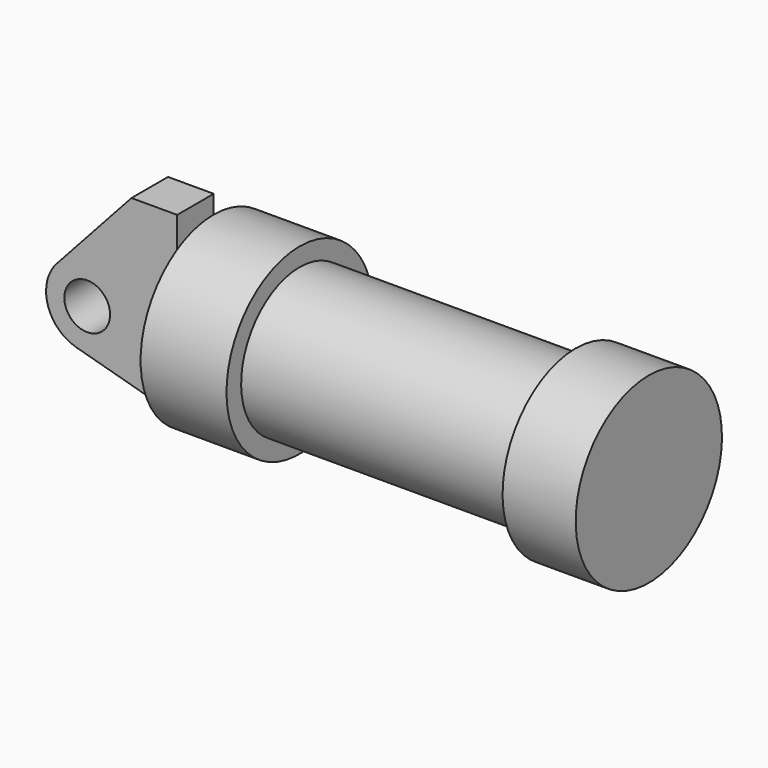
from build123d import *

# Parameters (mm, degrees)
F0_R     = 3.175
F0_W     = 5.842
F0_H     = 12.7
F2_DEPTH = 6.35
F3_DEPTH = 7.62


with BuildPart() as f1:
    # F0 (on Front) → F1 (revolve)
    with BuildSketch(Plane.XZ):
        Polygon((5.842, 12.7), (5.842, 0), (66.294, 0), (66.294, 12.7), (56.134, 12.7), (56.134, 10.16), (10.16, 10.16), (10.16, 12.7), align=None)
    revolve(axis=Axis((33.147, 0, 0), (-1, 0, 0)))

    # F0 (on Front) → F2 (join)
    with BuildSketch(Plane.XZ):
        with BuildLine():
            ThreePointArc((-8.1826630726, -5.5069827884), (-3.1957909266, -4.5493385486), (-0.9398, 0))
            ThreePointArc((-0.9398, 0), (-4.5919612295, 5.3297205562), (-10.8806298187, 3.8475430269))
            ThreePointArc((-10.8806298187, 3.8475430269), (-12.1459778134, -1.5837270034), (-8.1826630726, -5.5069827884))
        make_face()
        with Locations((-6.6548, 0)):
            Circle(F0_R, mode=Mode.SUBTRACT)
        with BuildLine():
            Line((5.842, 0), (0, 0))
            Line((0, 0), (-0.9398, 0))
            ThreePointArc((-0.9398, 0), (-3.1957909266, -4.5493385486), (-8.1826630726, -5.5069827884))
            Line((-8.1826630726, -5.5069827884), (5.842, -9.398))
            Line((5.842, -9.398), (5.842, 0))
        make_face()
        with BuildLine():
            Line((-0.9398, 0), (0, 0))
            Line((0, 0), (0, 12.7))
            Line((0, 12.7), (5.842, 12.7))
            Line((5.842, 12.7), (5.842, 15.24))
            Line((5.842, 15.24), (-0.508, 15.24))
            Line((-0.508, 15.24), (-10.8806298187, 3.8475430269))
            ThreePointArc((-10.8806298187, 3.8475430269), (-4.5919612295, 5.3297205562), (-0.9398, 0))
        make_face()
        with Locations((2.921, 6.35)):
            Rectangle(F0_W, F0_H)
    extrude(amount=F2_DEPTH)

    # F3 (add): a face of the model
    f3_faces = [f1.faces().sort_by_distance(p)[0] for p in [
        (10.16, 0, -10.5192102448),
    ]]
    extrude(f3_faces, amount=F3_DEPTH)


solid = f1.part
